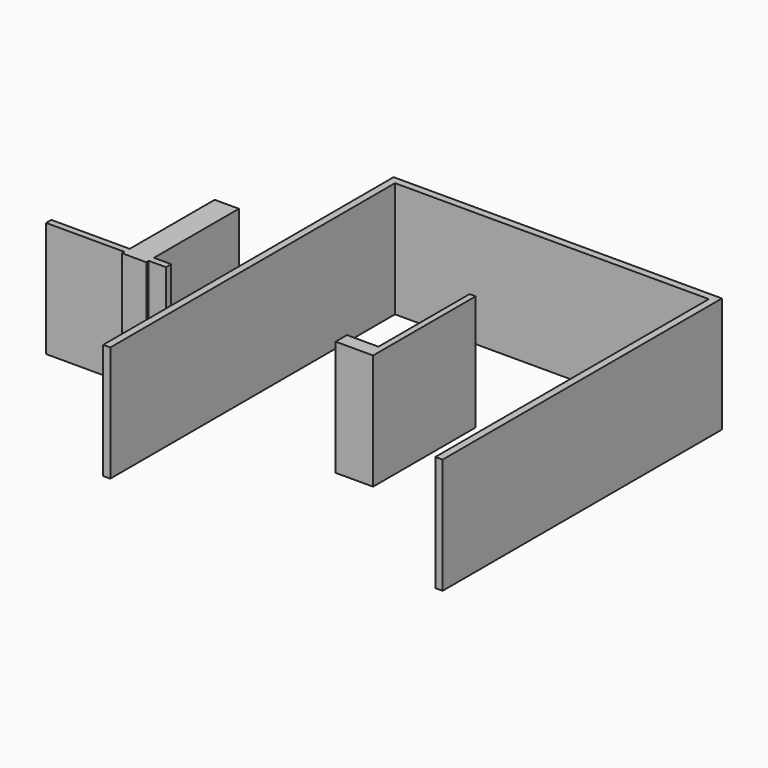
from build123d import *

# Parameters (mm, degrees)
F1_DEPTH = 2425.7
F2_W     = 509.006023407
F2_H     = 2231.2512397766
F2_W_2   = 363.1949424744
F2_H_2   = 136.8050575256
F2_W_3   = 1646.4819908142
F2_H_3   = 63.9410018921
F3_DEPTH = 2425.7


with BuildPart() as f1:
    # F0 (on Top) → F1 (new body)
    with BuildSketch(Plane.XY):
        Polygon((0, -2692.4), (0, 0), (-127, 0), (-127, -2393.95), (-787.4, -2393.95), (-787.4, -2692.4), align=None)
    extrude(amount=F1_DEPTH)


with BuildPart() as f3:
    # F2 (on Top) → F3 (new body)
    with BuildSketch(Plane.XY):
        with Locations((-5228.4052371979, -1112.4196052551)):
            Rectangle(F2_W, F2_H)
        with Locations((-4792.3047542572, -2296.4477539062)):
            Rectangle(F2_W_2, F2_H_2)
        with Locations((-5228.4052371979, -2296.4477539062)):
            Rectangle(F2_W, F2_H_2)
        with Locations((-6306.1492443085, -2296.4477539062)):
            Rectangle(F2_W_3, F2_H_2)
        with Locations((-5228.4052371979, -2396.8207836151)):
            Rectangle(F2_W, F2_H_3)
    extrude(amount=F3_DEPTH)


with BuildPart() as f3b:
    # F2 (on Top) → F3, piece 2 (new body)
    with BuildSketch(Plane.XY):
        Polygon((3048, 2311.4), (3048, -4868.5947186378), (3200.4, -4868.5947186378), (3200.4, 2463.8), (-3693.5577988625, 2463.8), (-3693.5577988625, 2311.4), (-3543.3773994446, 2311.4), align=None)
        Polygon((-3543.3773994446, -5161.6616565704), (-3543.3773994446, 2311.4), (-3693.5577988625, 2311.4), (-3693.5577988625, 3.2060146332), (-3693.5577988625, -5161.6616565704), align=None)
    extrude(amount=F3_DEPTH)


solid = Compound([f1.part, f3.part, f3b.part])
